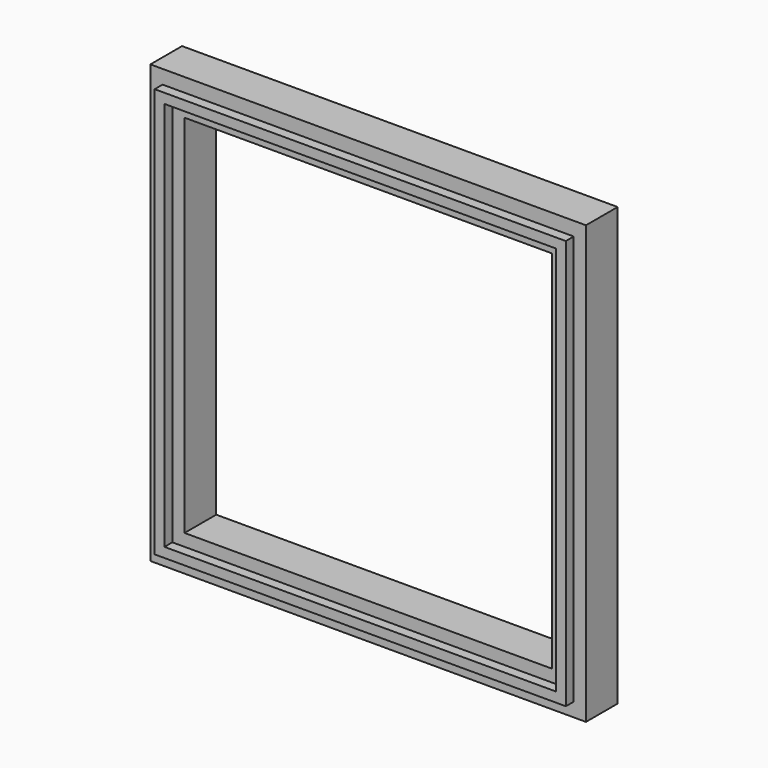
from build123d import *

# Parameters (mm, degrees)
F0_W     = 103.83486
F0_H     = 103.423626
F0_W_2   = 98.900132
F0_H_2   = 98.488912
F1_DEPTH = 7.5
F0_W_3   = 110.00327
F0_H_3   = 110.414498
F0_W_4   = 92.73173
F0_H_4   = 92.320494
F2_DEPTH = 5


with BuildPart() as f1:
    # F0 (on Front) → F1 (new body, symmetric)
    with BuildSketch(Plane.XZ):
        Rectangle(F0_W, F0_H)
        Rectangle(F0_W_2, F0_H_2, mode=Mode.SUBTRACT)
    extrude(amount=F1_DEPTH, both=True)


with BuildPart() as f2:
    # F0 (on Front) → F2 (new body, symmetric)
    with BuildSketch(Plane.XZ):
        Rectangle(F0_W_3, F0_H_3)
        Rectangle(F0_W, F0_H, mode=Mode.SUBTRACT)
        Rectangle(F0_W, F0_H)
        Rectangle(F0_W_2, F0_H_2, mode=Mode.SUBTRACT)
        Rectangle(F0_W_2, F0_H_2)
        Rectangle(F0_W_4, F0_H_4, mode=Mode.SUBTRACT)
    extrude(amount=F2_DEPTH, both=True)


solid = Compound([f1.part, f2.part])
